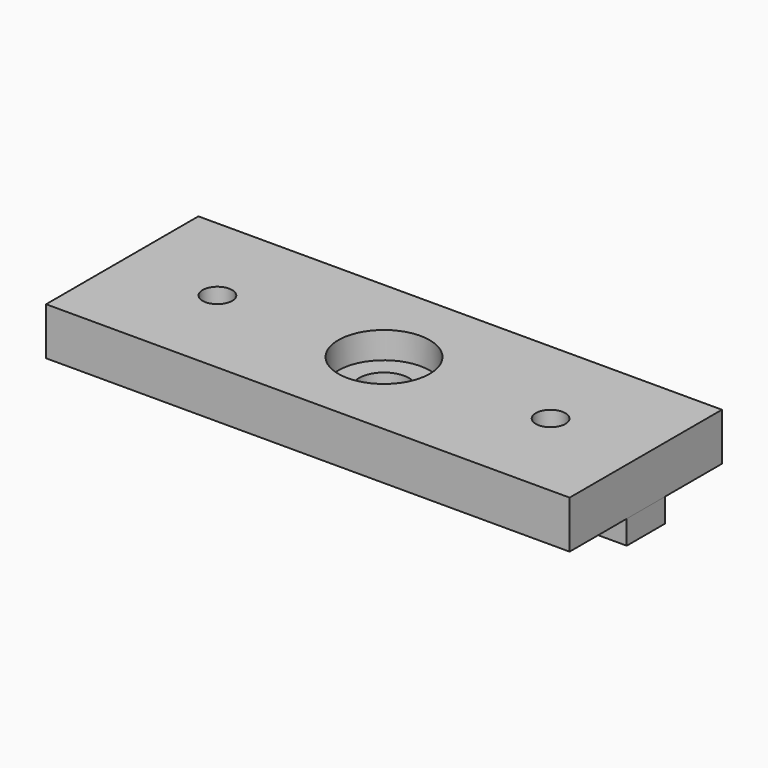
from build123d import *

# Parameters (mm, degrees)
F0_W      = 55
F0_H      = 20
F1_DEPTH  = 5
F2_R      = 4.8
F3_DEPTH  = 2.8
F4_R      = 2.625
F5_DEPTH  = 25
F2_R_2    = 1.55
F6_DEPTH  = 25
F8_DEPTH  = 2.45
F9_W      = 10
F9_H      = 5
F9_W_2    = 5.794909
F10_DEPTH = 2.5


with BuildPart() as f1:
    # F0 (on Top) → F1 (new body)
    with BuildSketch(Plane.XY):
        Rectangle(F0_W, F0_H)
    extrude(amount=F1_DEPTH)

    # F2 (on face) → F3 (cut)
    with BuildSketch(Plane.XY.offset(5)):
        Circle(F2_R)
    extrude(amount=-F3_DEPTH, mode=Mode.SUBTRACT)

    # F4 (on face) → F5 (cut)
    with BuildSketch(Plane(origin=(0, 0, 0), x_dir=(1, 0, 0), z_dir=(0, 0, -1))):
        Circle(F4_R)
    extrude(amount=-F5_DEPTH, mode=Mode.SUBTRACT)

    # F2 (on face) → F6 (cut)
    with BuildSketch(Plane.XY.offset(5)):
        with Locations((-17.5, 0)):
            Circle(F2_R_2)
        with Locations((17.5, 0)):
            Circle(F2_R_2)
    extrude(amount=-F6_DEPTH, mode=Mode.SUBTRACT)

    # F7 (on face) → F8 (cut)
    with BuildSketch(Plane(origin=(0, 0, 0), x_dir=(1, 0, 0), z_dir=(0, 0, -1))):
        Polygon((-16, 2.598076), (-19, 2.598076), (-20.5, 0), (-19, -2.598076), (-16, -2.598076), (-14.5, 0), align=None)
        Polygon((19, 2.598076), (16, 2.598076), (14.5, 0), (16, -2.598076), (19, -2.598076), (20.5, 0), align=None)
    extrude(amount=-F8_DEPTH, mode=Mode.SUBTRACT)

    # F9 (on face) → F10 (join)
    with BuildSketch(Plane(origin=(0, 0, 0), x_dir=(1, 0, 0), z_dir=(0, 0, -1))):
        Polygon((-27.5, 2.473653), (-27.5, -2.5), (-21.705, -2.526347), (-21.705, 2.473653), align=None)
        with Locations((-8.014056, -0.021072)):
            Rectangle(F9_W, F9_H)
        with Locations((8.194137, -0.011235)):
            Rectangle(F9_W, F9_H)
        with Locations((24.602545, 0)):
            Rectangle(F9_W_2, F9_H)
    extrude(amount=F10_DEPTH)


solid = f1.part
